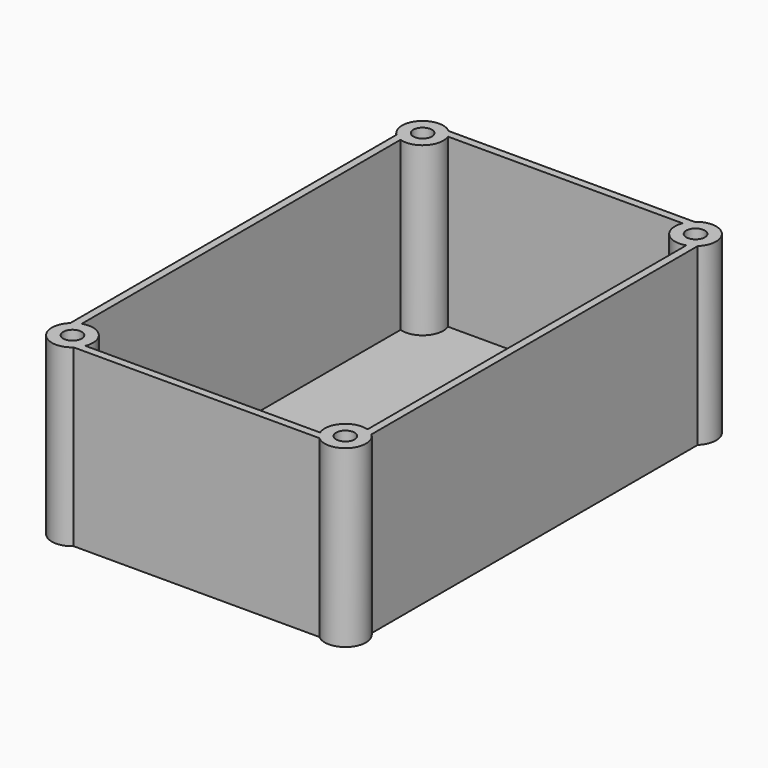
from build123d import *

# Parameters (mm, degrees)
F0_W      = 58.5
F0_H      = 91
F1_DEPTH  = 34
F2_T      = -1.5
F3_R      = 3
F4_R      = 2
F5_R      = 4
F6_DEPTH  = 34
F7_R      = 1.8
F8_DEPTH  = 32
F12_DEPTH = 4
F10_R     = 10.25
F13_DEPTH = 25


with BuildPart() as f1:
    # F0 (on Top) → F1 (new body)
    with BuildSketch(Plane.XY):
        Rectangle(F0_W, F0_H)
    extrude(amount=-F1_DEPTH)

    # F2
    f2_openings = [f1.faces().sort_by_distance(p)[0] for p in [
        (0, 0, 0),
    ]]
    offset(amount=F2_T, openings=f2_openings)

    # F3
    f3_edges = [f1.edges().sort_by_distance(p)[0] for p in [
        (-29.25, 45.5, -17),
        (29.25, 45.5, -17),
        (-29.25, -45.5, -17),
        (29.25, -45.5, -17),
    ]]
    fillet(f3_edges, radius=F3_R)

    # F4
    f4_edges = [f1.edges().sort_by_distance(p)[0] for p in [
        (-27.75, 44, -16.25),
        (-27.75, -44, -16.25),
        (27.75, -44, -16.25),
        (27.75, 44, -16.25),
    ]]
    fillet(f4_edges, radius=F4_R)

    # F5 (on face) → F6 (join)
    with BuildSketch(Plane.XY):
        with Locations((26.5, -42.5)):
            Circle(F5_R)
        with Locations((26.5, 42.5)):
            Circle(F5_R)
        with Locations((-26.5, 42.5)):
            Circle(F5_R)
        with Locations((-26.5, -42.5)):
            Circle(F5_R)
    extrude(amount=-F6_DEPTH)

    # F7 (on Top) → F8 (cut)
    with BuildSketch(Plane.XY):
        with Locations((26.5, -42.5)):
            Circle(F7_R)
        with Locations((26.5, 42.5)):
            Circle(F7_R)
        with Locations((-26.5, -42.5)):
            Circle(F7_R)
        with Locations((-26.5, 42.5)):
            Circle(F7_R)
    extrude(amount=-F8_DEPTH, mode=Mode.SUBTRACT)

    # F11 (on face) → F12 (join)
    with BuildSketch(Plane(origin=(0, 0, -34), x_dir=(1, 0, 0), z_dir=(0, 0, -1))):
        Polygon((26, -5), (29, -5), (29, 5), (26, 5), (26, 3), (27, 3), (27, -3), (26, -3), align=None)
        Polygon((1, 5), (1, -5), (4, -5), (4, -3), (3, -3), (3, 3), (4, 3), (4, 5), align=None)
    extrude(amount=-F12_DEPTH)

    # F10 (on face) → F13 (cut)
    with BuildSketch(Plane(origin=(0, 0, -34), x_dir=(1, 0, 0), z_dir=(0, 0, -1))):
        with Locations((15, 0)):
            Circle(F10_R)
    extrude(amount=-F13_DEPTH, mode=Mode.SUBTRACT)


solid = f1.part
